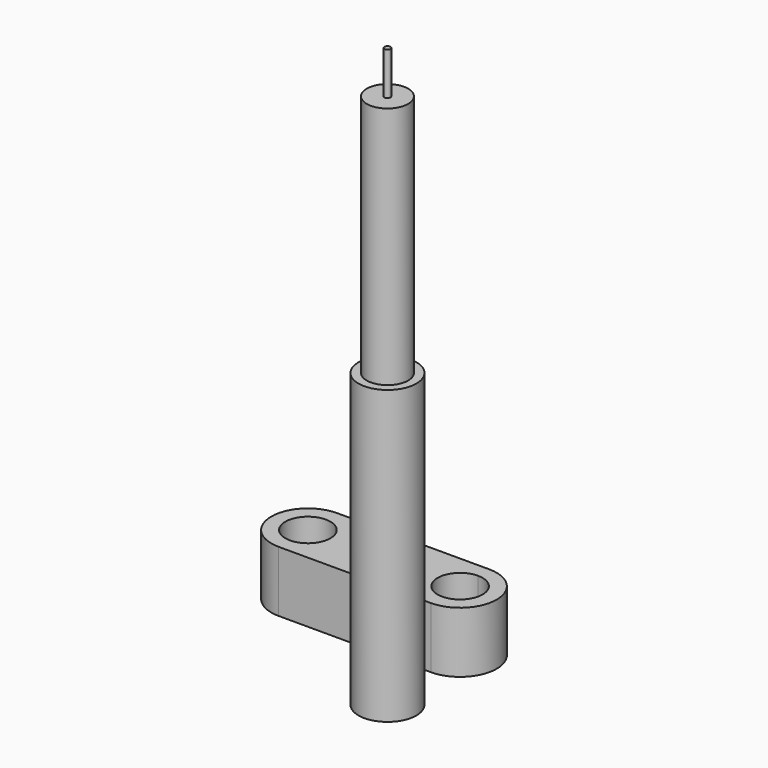
from build123d import *

# Parameters (mm, degrees)
F1_R     = 4.75
F1_R_2   = 3.4
F2_DEPTH = 48
F1_R_3   = 0.5
F3_DEPTH = 88
F4_DEPTH = 95
F0_R     = 3.7
F0_R_2   = 3
F5_DEPTH = 5
F0_R_3   = 5
F0_R_4   = 3.5
F6_DEPTH = 10
F7_DEPTH = 8


with BuildPart() as f2:
    # F1 (on Top) → F2 (new body)
    with BuildSketch(Plane.XY):
        with Locations((50.7105737925, -27.5254845619)):
            Circle(F1_R)
        with Locations((50.7105737925, -27.5254845619)):
            Circle(F1_R_2, mode=Mode.SUBTRACT)
    extrude(amount=F2_DEPTH)

    # F1 (on Top) → F3 (join)
    with BuildSketch(Plane.XY):
        with Locations((50.7105737925, -27.5254845619)):
            Circle(F1_R_2)
        with Locations((50.7105737925, -27.5254845619)):
            Circle(F1_R_3, mode=Mode.SUBTRACT)
    extrude(amount=F3_DEPTH)

    # F1 (on Top) → F4 (join)
    with BuildSketch(Plane.XY):
        with Locations((50.7105737925, -27.5254845619)):
            Circle(F1_R_3)
    extrude(amount=F4_DEPTH)


with BuildPart() as f5:
    # F0 (on Top) → F5 (new body)
    with BuildSketch(Plane.XY):
        with Locations((24.3957359344, -10.9716980308)):
            Circle(F0_R)
        with Locations((24.3957359344, -10.9716980308)):
            Circle(F0_R_2, mode=Mode.SUBTRACT)
    extrude(amount=F5_DEPTH)



with BuildPart() as f5b:
    # F0 (on Top) → F5, piece 2 (new body)
    with BuildSketch(Plane.XY):
        with BuildLine():
            Line((49.3957359344, -7.9716980308), (49.3957359344, -7.2716980308))
            ThreePointArc((49.3957359344, -7.2716980308), (45.6957359344, -10.9716980308), (49.3957359344, -14.6716980308))
            Line((49.3957359344, -14.6716980308), (49.3957359344, -13.9716980308))
            ThreePointArc((49.3957359344, -13.9716980308), (46.3957359344, -10.9716980308), (49.3957359344, -7.9716980308))
        make_face()
        with BuildLine():
            ThreePointArc((53.0957359344, -10.9716980308), (52.0120310248, -8.3554029404), (49.3957359344, -7.2716980308))
            Line((49.3957359344, -7.2716980308), (49.3957359344, -7.9716980308))
            ThreePointArc((49.3957359344, -7.9716980308), (51.5170562779, -8.8503776873), (52.3957359344, -10.9716980308))
            ThreePointArc((52.3957359344, -10.9716980308), (51.5170562779, -13.0930183744), (49.3957359344, -13.9716980308))
            Line((49.3957359344, -13.9716980308), (49.3957359344, -14.6716980308))
            ThreePointArc((49.3957359344, -14.6716980308), (52.0120310248, -13.5879931212), (53.0957359344, -10.9716980308))
        make_face()
    extrude(amount=F5_DEPTH)


with BuildPart() as f5_1:
    add(f5.part)

    add(f5b.part)  # F6 merges F5b
    # F0 (on Top) → F6 (join)
    with BuildSketch(Plane.XY):
        with BuildLine():
            Line((36.8957359344, -4.9716980308), (24.3957359344, -4.9716980308))
            ThreePointArc((24.3957359344, -4.9716980308), (18.3957359344, -10.9716980308), (24.3957359344, -16.9716980308))
            Line((24.3957359344, -16.9716980308), (36.8957359344, -16.9716980308))
            Line((36.8957359344, -16.9716980308), (49.3957359344, -16.9716980308))
            Line((49.3957359344, -16.9716980308), (49.3957359344, -14.6716980308))
            ThreePointArc((49.3957359344, -14.6716980308), (45.6957359344, -10.9716980308), (49.3957359344, -7.2716980308))
            Line((49.3957359344, -7.2716980308), (49.3957359344, -4.9716980308))
            Line((49.3957359344, -4.9716980308), (36.8957359344, -4.9716980308))
        make_face()
        with Locations((24.3957359344, -10.9716980308)):
            Circle(F0_R, mode=Mode.SUBTRACT)
        with Locations((36.8957359344, -10.9716980308)):
            Circle(F0_R_3, mode=Mode.SUBTRACT)
        with BuildLine():
            ThreePointArc((49.3957359344, -16.9716980308), (55.3957359344, -10.9716980308), (49.3957359344, -4.9716980308))
            Line((49.3957359344, -4.9716980308), (49.3957359344, -7.2716980308))
            ThreePointArc((49.3957359344, -7.2716980308), (52.0120310248, -8.3554029404), (53.0957359344, -10.9716980308))
            ThreePointArc((53.0957359344, -10.9716980308), (52.0120310248, -13.5879931212), (49.3957359344, -14.6716980308))
            Line((49.3957359344, -14.6716980308), (49.3957359344, -16.9716980308))
        make_face()
        with Locations((36.8957359344, -10.9716980308)):
            Circle(F0_R_3)
        with Locations((36.8957359344, -10.9716980308)):
            Circle(F0_R_4, mode=Mode.SUBTRACT)
    extrude(amount=F6_DEPTH)

    # F0 (on Top) → F7 (cut)
    with BuildSketch(Plane.XY):
        with Locations((36.8957359344, -10.9716980308)):
            Circle(F0_R_3)
        with Locations((36.8957359344, -10.9716980308)):
            Circle(F0_R_4, mode=Mode.SUBTRACT)
    extrude(amount=F7_DEPTH, mode=Mode.SUBTRACT)


solid = Compound([f2.part, f5_1.part])
